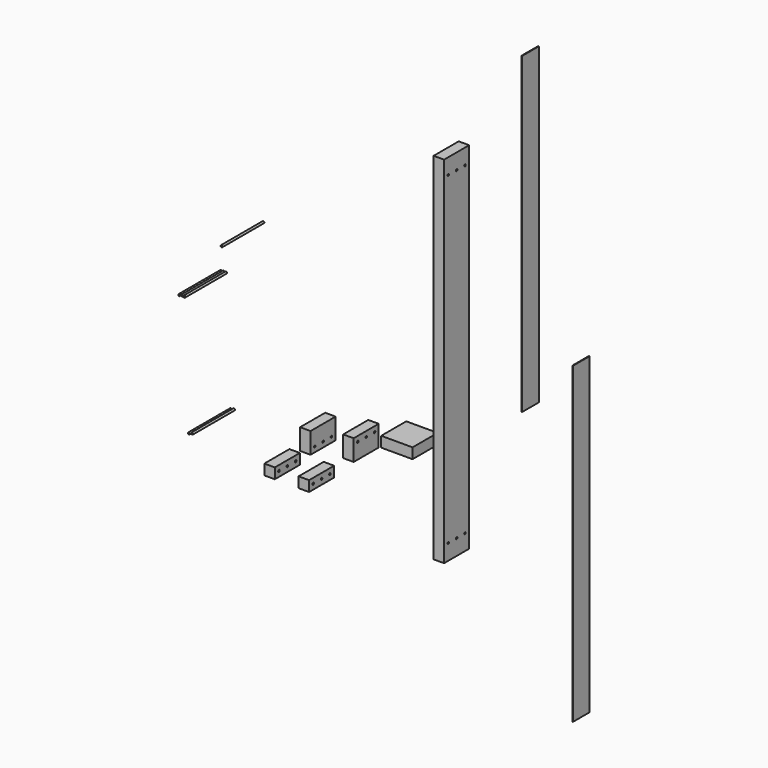
from build123d import *

# Parameters (mm, degrees)
F0_W      = 50.8
F0_H      = 101.6
F1_DEPTH  = 152.4
F2_DEPTH  = 152.4
F0_W_2    = 152.4
F0_H_2    = 50.8
F3_DEPTH  = 152.4
F4_DEPTH  = 152.4
F0_H_3    = 1727.2
F5_W      = 3.175
F5_H      = 1524
F6_DEPTH  = 101.6
F7_R      = 4.7625
F8_DEPTH  = 254
F9_R      = 4.7625
F11_DEPTH = 254
F10_R     = 4.7625
F13_D     = 9.525
F15_D     = 9.525
F17_D     = 9.525
F19_D     = 9.525
F21_D     = 9.525
F22_R     = 4.7625
F23_DEPTH = 254


with BuildPart() as f1:
    # F0 (on Front) → F1 (new body)
    with BuildSketch(Plane.XZ):
        with Locations((-446.6128557265, 67.4899072211)):
            Rectangle(F0_W, F0_H)
    extrude(amount=F1_DEPTH)

    # F17 (through all)
    with Locations(Plane.YZ.offset(-421.2128557265)):
        with Locations((-127, 42.0899072211), (-76.2, 42.0899072211), (-25.4, 42.0899072211)):
            Hole(F17_D / 2)


with BuildPart() as f2:
    # F0 (on Front) → F2 (new body)
    with BuildSketch(Plane.XZ):
        with Locations((-237.1035239935, 104.7981487036)):
            Rectangle(F0_W, F0_H)
    extrude(amount=F2_DEPTH)

    # F19 (through all)
    with Locations(Plane.YZ.offset(-211.7035239935)):
        with Locations((-127, 130.1981487036), (-76.2, 130.1981487036), (-25.4, 130.1981487036)):
            Hole(F19_D / 2)


with BuildPart() as f3:
    # F0 (on Front) → F3 (new body)
    with BuildSketch(Plane.XZ):
        with Locations((-1.6065100312, 184.3124202728)):
            Rectangle(F0_W_2, F0_H_2)
    extrude(amount=F3_DEPTH)


with BuildPart() as f4:
    # F0 (on Front) → F4 (new body)
    with BuildSketch(Plane.XZ):
        with Locations((-620.4745598793, -119.2758508682)):
            Rectangle(F0_W, F0_H_2)
    extrude(amount=F4_DEPTH)

    # F13 (through all)
    with Locations(Plane(origin=(-645.8745598793, 0, 0), x_dir=(0, -1, 0), z_dir=(-1, 0, 0))):
        with Locations((25.4, -119.2758508682), (127, -119.2758508682), (76.2, -119.2758508682)):
            Hole(F13_D / 2)


with BuildPart() as f4b:
    # F0 (on Front) → F4, piece 2 (new body)
    with BuildSketch(Plane.XZ):
        with Locations((-453.8576177597, -119.6987427115)):
            Rectangle(F0_W, F0_H_2)
    extrude(amount=F4_DEPTH)

    # F15 (through all)
    with Locations(Plane.YZ.offset(-428.4576177597)):
        with Locations((-127, -119.6987427115), (-76.2, -119.6987427115), (-25.4, -119.6987427115)):
            Hole(F15_D / 2)


with BuildPart() as f4c:
    # F0 (on Front) → F4, piece 3 (new body)
    with BuildSketch(Plane.XZ):
        with Locations((202.5083474159, 627.3131512165)):
            Rectangle(F0_W, F0_H_3)
    extrude(amount=F4_DEPTH)

    # F21 (through all)
    with Locations(Plane.YZ.offset(227.9083474159)):
        with Locations((-127, -160.0868487835), (-76.2, -160.0868487835), (-25.4, -160.0868487835), (-127, 1414.7131512165), (-76.2, 1414.7131512165), (-25.4, 1414.7131512165)):
            Hole(F21_D / 2)


with BuildPart() as f6:
    # F5 (on Front) → F6 (new body)
    with BuildSketch(Plane.XZ):
        with Locations((564.9974048138, 1262.1479739351)):
            Rectangle(F5_W, F5_H)
    extrude(amount=F6_DEPTH)


with BuildPart() as f6b:
    # F5 (on Front) → F6, piece 2 (new body)
    with BuildSketch(Plane.XZ):
        with Locations((812.0370805264, 16.35658741)):
            Rectangle(F5_W, F5_H)
    extrude(amount=F6_DEPTH)


with BuildPart() as f8:
    # F7 (on Front) → F8 (new body)
    with BuildSketch(Plane.XZ):
        with Locations((-772.5092768669, 836.2206816673)):
            Circle(F7_R)
    extrude(amount=F8_DEPTH)


with BuildPart() as f11:
    # F9 (on Front) → F11 (new body)
    with BuildSketch(Plane.XZ):
        with Locations((-931.0812950134, -16.228409484)):
            Circle(F9_R)
    extrude(amount=F11_DEPTH)


with BuildPart() as f11b:
    # F10 (on Front) → F11, piece 2 (new body)
    with BuildSketch(Plane.XZ):
        with Locations((-915.1256680489, -11.6510931402)):
            Circle(F10_R)
    extrude(amount=F11_DEPTH)


with BuildPart() as f23:
    # F22 (on Front) → F23 (new body)
    with BuildSketch(Plane.XZ):
        with Locations((-977.8030441447, 560.4569140159)):
            Circle(F22_R)
    extrude(amount=F23_DEPTH)


with BuildPart() as f23b:
    # F22 (on Front) → F23, piece 2 (new body)
    with BuildSketch(Plane.XZ):
        with Locations((-965.0748769732, 561.9830721244)):
            Circle(F22_R)
    extrude(amount=F23_DEPTH)


with BuildPart() as f23c:
    # F22 (on Front) → F23, piece 3 (new body)
    with BuildSketch(Plane.XZ):
        with Locations((-953.4563895492, 561.8722988101)):
            Circle(F22_R)
    extrude(amount=F23_DEPTH)


solid = Compound([f1.part, f2.part, f3.part, f4.part, f4b.part, f4c.part, f6.part, f6b.part, f8.part, f11.part, f11b.part, f23.part, f23b.part, f23c.part])
